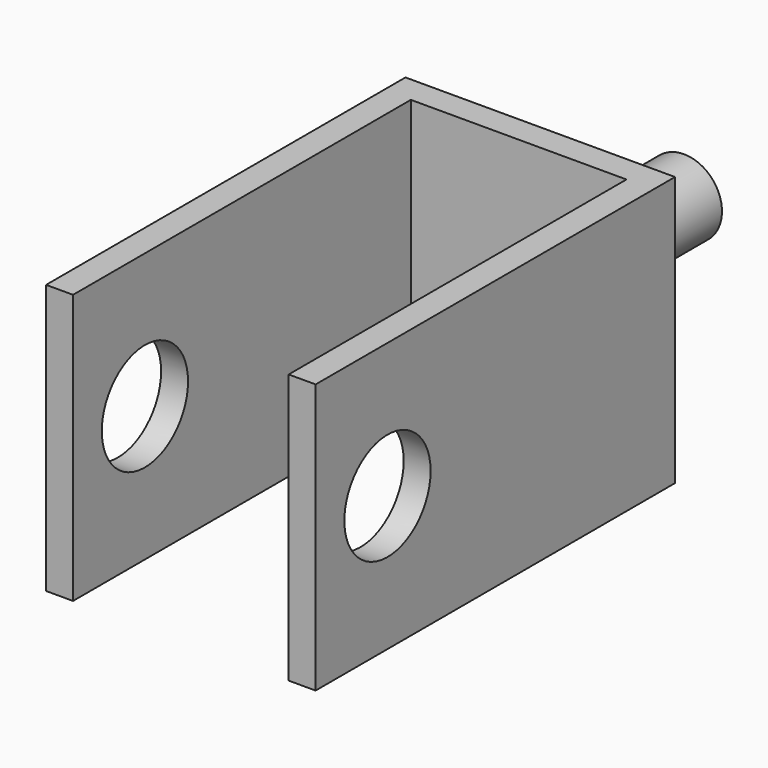
from build123d import *

# Parameters (mm, degrees)
PAD003_DEPTH = 30
SKETCH005_R  = 6
POCKET_DEPTH = 30.001
SKETCH006_R  = 4.232151
PAD004_DEPTH = 20


with BuildPart() as part:
    # Sketch004 → Pad003 (new body)
    with BuildSketch(Plane.XY):
        Polygon((-12, 0), (-15, 0), (-15, 50), (15, 50), (15, 0), (12, 0), (12, 47), (-12, 47), align=None)
    extrude(amount=PAD003_DEPTH)

    # Sketch005 (on DatumPlane) → Pocket (cut, through all)
    with BuildSketch(Plane.YZ.offset(15)):
        with Locations((10, 15.016033)):
            Circle(SKETCH005_R)
    extrude(amount=-POCKET_DEPTH, mode=Mode.SUBTRACT)

    # Sketch006 (on DatumPlane) → Pad004 (join)
    with BuildSketch(Plane(origin=(0, 50, 0), x_dir=(-1, 0, 0), z_dir=(0, 1, 0))):
        with Locations((0, 15)):
            Circle(SKETCH006_R)
    extrude(amount=PAD004_DEPTH)


with BuildPart() as part_1:
    # Body009 placement: moved
    add(part.part.moved(Location((10, -300, 0))))


solid = part_1.part
